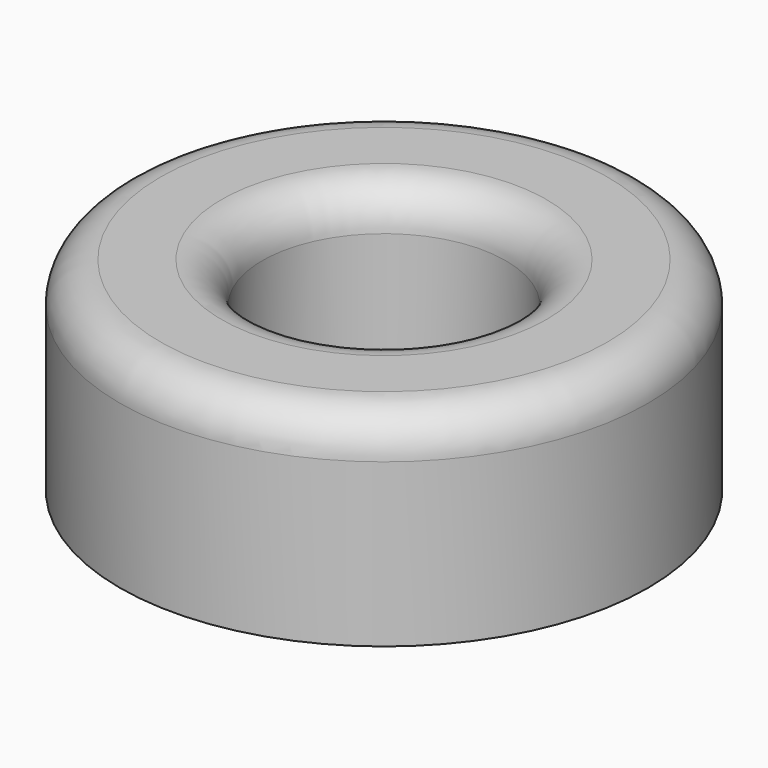
from build123d import *

# Parameters (mm, degrees)
F0_R     = 6.5
F0_R_2   = 3
F1_DEPTH = 5
F2_DEPTH = 5
F3_R     = 1


with BuildPart() as f1:
    # F0 (on Top) → F1 (new body)
    with BuildSketch(Plane.XY):
        Circle(F0_R)
        Circle(F0_R_2, mode=Mode.SUBTRACT)
    extrude(amount=F1_DEPTH)

    # F0 (on Top) → F2 (join)
    with BuildSketch(Plane.XY):
        Circle(F0_R)
        Circle(F0_R_2, mode=Mode.SUBTRACT)
    extrude(amount=F2_DEPTH)

    # F3
    f3_edges = [f1.edges().sort_by_distance(p)[0] for p in [
        (-3, 0, 5),
        (-6.5, 0, 5),
    ]]
    fillet(f3_edges, radius=F3_R)


solid = f1.part
